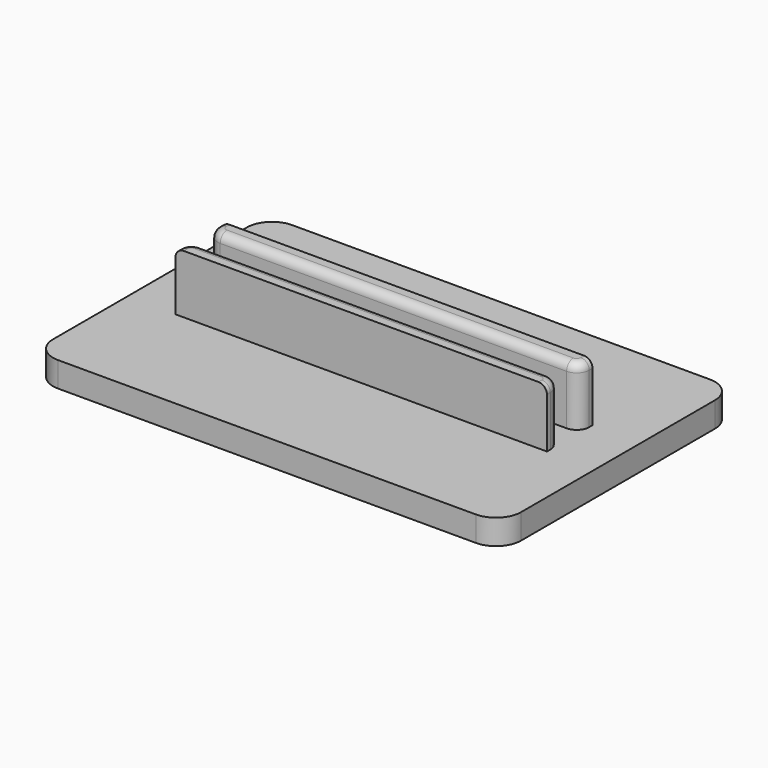
from build123d import *

# Parameters (mm, degrees)
F0_W     = 56
F0_H     = 35
F0_W_2   = 44.448143
F0_H_2   = 2
F1_DEPTH = 3
F2_DEPTH = 10
F3_R     = 1.5
F4_R     = 1
F5_R     = 3


with BuildPart() as f1:
    # F0 (on Top) → F1 (new body)
    with BuildSketch(Plane.XY):
        with Locations((-37.713654, 34.063472)):
            Rectangle(F0_W, F0_H)
        with Locations((-37.713654, 31.653472)):
            Rectangle(F0_W_2, F0_H_2, mode=Mode.SUBTRACT)
        with Locations((-37.713654, 36.473472)):
            Rectangle(F0_W_2, F0_H_2, mode=Mode.SUBTRACT)
    extrude(amount=F1_DEPTH)

    # F0 (on Top) → F2 (join)
    with BuildSketch(Plane.XY):
        with Locations((-37.713654, 31.653472)):
            Rectangle(F0_W_2, F0_H_2)
        with Locations((-37.713654, 36.473472)):
            Rectangle(F0_W_2, F0_H_2)
    extrude(amount=F2_DEPTH)

    # F3
    f3_edges = [f1.edges().sort_by_distance(p)[0] for p in [
        (-59.937726, 35.473472, 6.5),
        (-59.937726, 32.653472, 6.5),
        (-15.489583, 35.473472, 6.5),
        (-15.489583, 32.653472, 6.5),
    ]]
    fillet(f3_edges, radius=F3_R)

    # F4
    f4_edges = [f1.edges().sort_by_distance(p)[0] for p in [
        (-37.713654, 35.473472, 10),
        (-37.713654, 32.653472, 10),
    ]]
    fillet(f4_edges, radius=F4_R)

    # F5
    f5_edges = [f1.edges().sort_by_distance(p)[0] for p in [
        (-9.713654, 51.563472, 1.5),
        (-65.713654, 16.563472, 1.5),
        (-65.713654, 51.563472, 1.5),
        (-9.713654, 16.563472, 1.5),
    ]]
    fillet(f5_edges, radius=F5_R)


solid = f1.part
